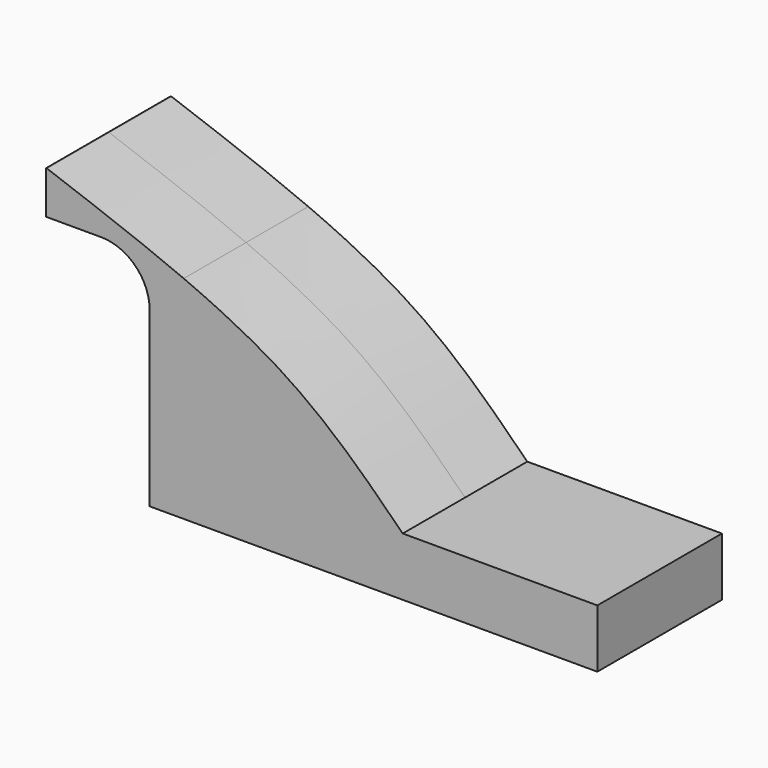
from build123d import *

# Parameters (mm, degrees)
F1_DEPTH = 25.4
F2_DEPTH = 63.5


with BuildPart() as f1:
    # F0 (on Front) → F1 (new body, symmetric)
    with BuildSketch(Plane.XZ):
        Polygon((-41.275, 0), (-41.275, -9.525), (41.275, -9.525), (41.275, 9.525), (-27.305, 9.525), (-41.275, 9.525), align=None)
        with BuildLine():
            Line((-41.275, 46.7724395394), (-41.275, 9.525))
            Line((-41.275, 9.525), (-27.305, 9.525))
            Line((-27.305, 9.525), (-27.305, 46.7724395394))
            ThreePointArc((-27.305, 46.7724395394), (-28.031305451, 53.316570709), (-30.1748711854, 59.542187009))
            add(Edge.make_bspline(
                [(-30.1748711854, 59.542187009), (-44.2437343882, 65.5703801741), (-59.5062310192, 71.0986135675), (-74.7911874827, 76.6174395394)],
                knots=[0.6868471287, 0.6868471287, 0.6868471287, 0.6868471287, 0.9941076038, 0.9941076038, 0.9941076038, 0.9941076038], degree=3))
            Line((-74.7911874827, 76.6174395394), (-75.0924881935, 76.6174395394))
            Line((-75.0924881935, 76.6174395394), (-75.0924881935, 62.6474395394))
            Line((-75.0924881935, 62.6474395394), (-57.15, 62.6474395394))
            ThreePointArc((-57.15, 62.6474395394), (-45.9246798487, 57.9977596908), (-41.275, 46.7724395394))
        make_face()
        with BuildLine():
            Line((-27.305, 9.525), (41.275, 9.525))
            add(Edge.make_bspline(
                [(41.275, 9.525), (29.0048459728, 21.7394090951), (10.1630968147, 40.4955576955), (-19.2059989577, 54.8422706307), (-30.1748711854, 59.542187009)],
                knots=[0, 0, 0, 0, 0.4472896859, 0.6868471287, 0.6868471287, 0.6868471287, 0.6868471287], degree=3))
            ThreePointArc((-30.1748711854, 59.542187009), (-28.031305451, 53.316570709), (-27.305, 46.7724395394))
            Line((-27.305, 46.7724395394), (-27.305, 9.525))
        make_face()
    extrude(amount=F1_DEPTH, both=True)

    # F2 (add, symmetric): a face of the model
    f2_faces = [f1.faces().sort_by_distance(p)[0] for p in [
        (41.275, 0, 0),
    ]]
    extrude(f2_faces, amount=F2_DEPTH, both=True)


solid = f1.part
